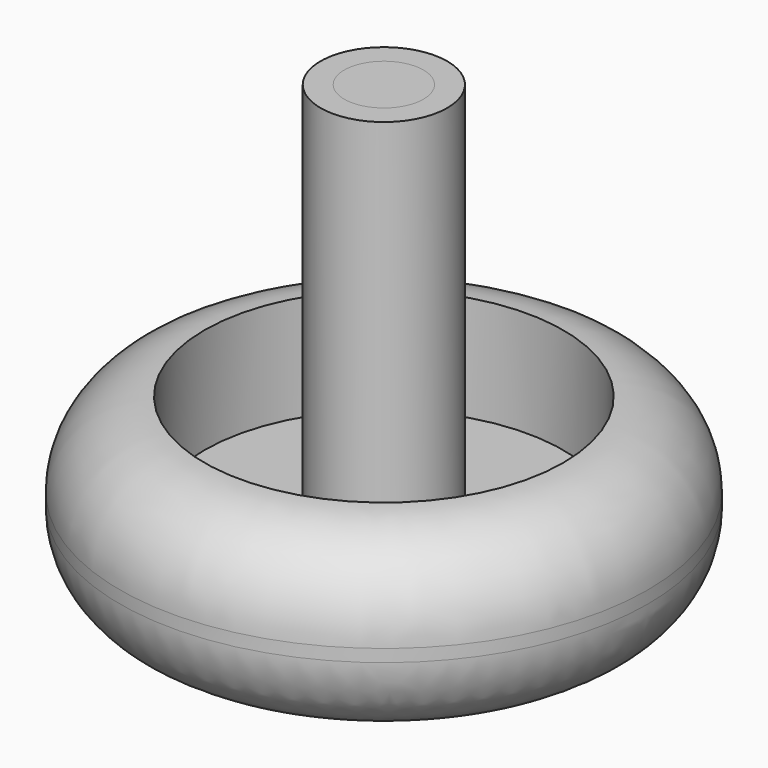
from build123d import *

# Parameters (mm, degrees)
F2_R     = 10.16
F3_R     = 1.5875
F4_DEPTH = 10.16
F5_R     = 4.7625
F6_DEPTH = 9.525
F7_DEPTH = 12.7


with BuildPart() as f1:
    # F0 (on Front) → F1 (revolve)
    with BuildSketch(Plane.XZ):
        Polygon((0, 58.42), (0, 0), (31.75, 5.08), (31.75, 25.4), (7.62, 25.4), (7.62, 58.42), align=None)
    revolve(axis=Axis((0, 0, 29.21), (0, 0, -1)))

    # F2
    f2_edges = [f1.edges().sort_by_distance(p)[0] for p in [
        (-31.75, 0, 5.08),
        (-31.75, 0, 25.4),
        (31.75, 0, 15.24),
    ]]
    fillet(f2_edges, radius=F2_R)

    # F7 (cut): a face of the model
    f7_faces = [f1.faces().sort_by_distance(p)[0] for p in [
        (-20.9793425838, 0, 25.4),
    ]]
    extrude(f7_faces, amount=-F7_DEPTH, mode=Mode.SUBTRACT)


with BuildPart() as f4:
    # F3 (on Top) → F4 (new body)
    with BuildSketch(Plane.XY):
        Circle(F3_R)
    extrude(amount=F4_DEPTH)


with BuildPart() as f6:
    # F5 (on face) → F6 (new body)
    with BuildSketch(Plane.XY.offset(58.42)):
        Circle(F5_R)
    extrude(amount=-F6_DEPTH)


solid = Compound([f1.part, f4.part, f6.part])
